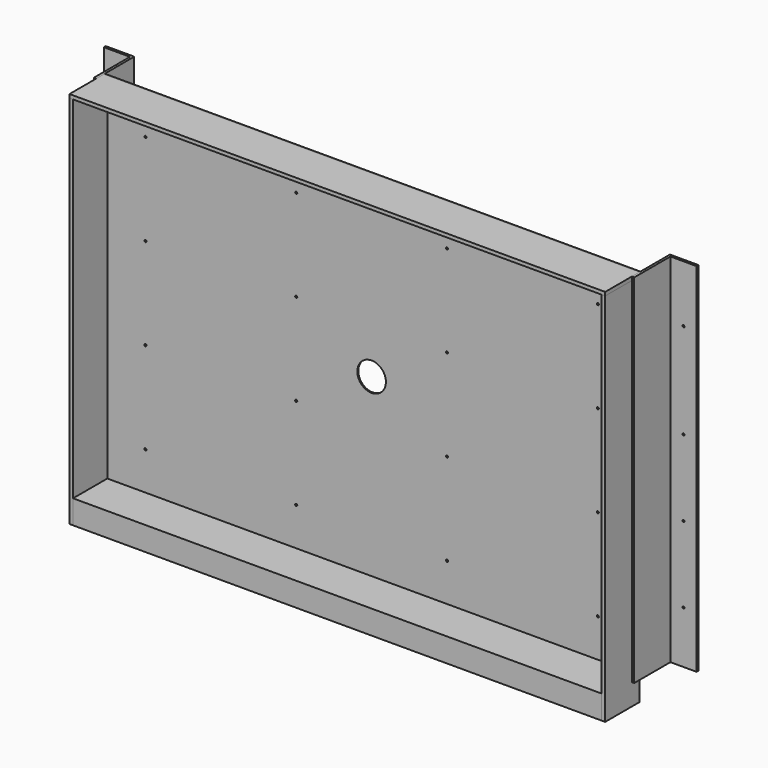
from build123d import *

# Parameters (mm, degrees)
F2_DEPTH  = 714.375
F1_W      = 114.3
F1_H      = 9.525
F3_DEPTH  = 714.375
F4_DEPTH  = 704.85
F5_W      = 114.3
F5_H      = 1000.125
F6_DEPTH  = 9.525
F8_R      = 2.794
F8_R_2    = 38.1
F9_DEPTH  = 3.176
F11_DEPTH = 952.5
F12_R     = 2.667
F13_DEPTH = 6.351


with BuildPart() as f2:
    # F1 (on Right) → F2 (new body, symmetric)
    with BuildSketch(Plane.YZ):
        Polygon((-3.175, 0), (0, 0), (0, 952.5), (-3.175, 952.5), (-3.175, 942.975), (-3.175, 6.35), align=None)
    extrude(amount=F2_DEPTH, both=True)

    # F8 (on face) → F9 (cut, through all)
    with BuildSketch(Plane.XZ.offset(3.175)):
        with Locations((-603.25, 841.375)):
            Circle(F8_R)
        with Locations((-201.0833333333, 841.375)):
            Circle(F8_R)
        with Locations((201.0833333333, 841.375)):
            Circle(F8_R)
        with Locations((603.25, 841.375)):
            Circle(F8_R)
        with Locations((603.25, 596.9)):
            Circle(F8_R)
        with Locations((603.25, 352.425)):
            Circle(F8_R)
        with Locations((603.25, 107.95)):
            Circle(F8_R)
        with Locations((201.0833333333, 107.95)):
            Circle(F8_R)
        with Locations((201.0833333333, 596.9)):
            Circle(F8_R)
        with Locations((201.0833333333, 352.425)):
            Circle(F8_R)
        with Locations((-201.0833333333, 352.425)):
            Circle(F8_R)
        with Locations((-201.0833333333, 596.9)):
            Circle(F8_R)
        with Locations((-201.0833333333, 107.95)):
            Circle(F8_R)
        with Locations((-603.25, 107.95)):
            Circle(F8_R)
        with Locations((-603.25, 596.9)):
            Circle(F8_R)
        with Locations((-603.25, 352.425)):
            Circle(F8_R)
        with Locations((0, 474.6625)):
            Circle(F8_R_2)
    extrude(amount=-F9_DEPTH, mode=Mode.SUBTRACT)


with BuildPart() as f3:
    # F1 (on Right) → F3 (new body, symmetric)
    with BuildSketch(Plane.YZ):
        with Locations((-60.325, 947.7375)):
            Rectangle(F1_W, F1_H)
    extrude(amount=F3_DEPTH, both=True)


with BuildPart() as f4:
    # F1 (on Right) → F4 (new body, symmetric)
    with BuildSketch(Plane.YZ):
        Polygon((-111.125, 0), (-3.175, 0), (-3.175, 6.35), (-117.475, 6.35), (-117.475, -57.15), (-111.125, -57.15), align=None)
    extrude(amount=F4_DEPTH, both=True)


with BuildPart() as f6:
    # F5 (on face) → F6 (new body, through all)
    with BuildSketch(Plane(origin=(-714.375, 0, 0), x_dir=(0, -1, 0), z_dir=(-1, 0, 0))):
        with Locations((60.325, 442.9125)):
            Rectangle(F5_W, F5_H)
    extrude(amount=-F6_DEPTH)


with BuildPart() as f7_1:
    # F7: instance of F6
    add(f6.part.mirror(Plane.YZ))


with BuildPart() as f11:
    # F10 (on Top) → F11 (new body, through all)
    with BuildSketch(Plane.XY):
        Polygon((-714.375, 98.425), (-790.575, 98.425), (-790.575, 92.075), (-720.725, 92.075), (-720.725, -28.575), (-714.375, -28.575), align=None)
    extrude(amount=F11_DEPTH)

    # F12 (on face) → F13 (cut, through all)
    with BuildSketch(Plane.XZ.offset(-92.075)):
        with Locations((-755.65, 800.1)):
            Circle(F12_R)
        with Locations((-755.65, 546.1)):
            Circle(F12_R)
        with Locations((-755.65, 139.7)):
            Circle(F12_R)
        with Locations((-755.65, 342.9)):
            Circle(F12_R)
    extrude(amount=-F13_DEPTH, mode=Mode.SUBTRACT)


with BuildPart() as f14_1:
    # F14: instance of F11
    add(f11.part.mirror(Plane.YZ))


solid = Compound([f2.part, f3.part, f4.part, f6.part, f7_1.part, f11.part, f14_1.part])
